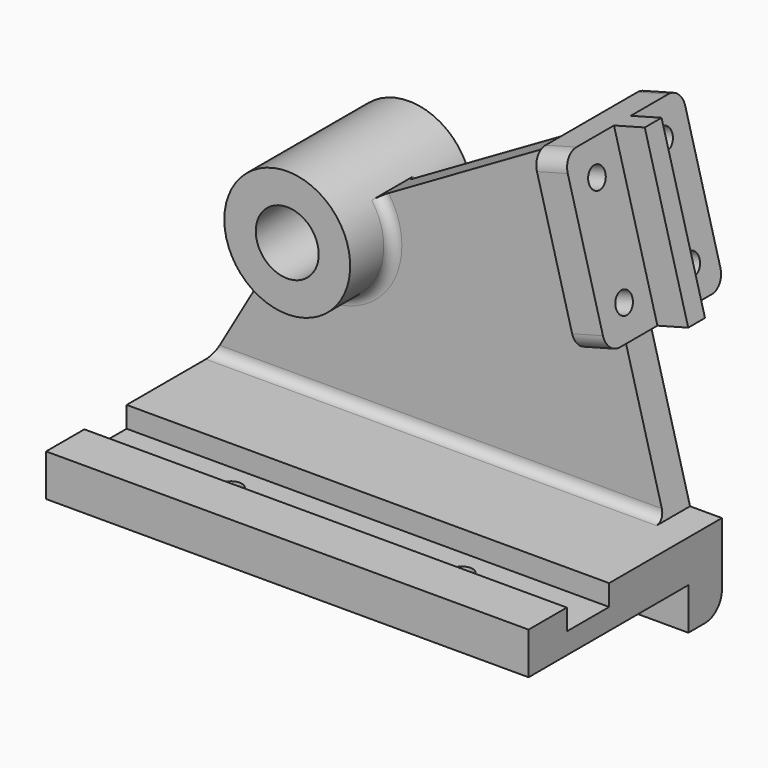
from build123d import *

# Parameters (mm, degrees)
F1_DEPTH      = 146.05
F2_R          = 3.175
F3_DEPTH      = 19.051
F4_R          = 6.35
F6_DEPTH      = 9.652
F7_R          = 19.05
F8_DEPTH      = 25.4
F8_DEPTH_BACK = 20.6375
F9_R          = 9.525
F10_DEPTH     = 46.0385
F11_W         = 44.45
F11_H         = 50.8
F12_DEPTH     = 9.652
F13_R         = 3.175
F14_DEPTH     = 9.652
F15_W         = 9.652
F15_H         = 6.35
F16_DEPTH     = 50.8
F17_R         = 4.826
F18_R         = 3.048


with BuildPart() as f1:
    # F0 (on Right) → F1 (new body)
    with BuildSketch(Plane.YZ):
        Polygon((0, -25.4), (0, 0), (-42.672, 0), (-42.672, -6.35), (-58.674, -6.35), (-58.674, 0), (-73.152, 0), (-73.152, -12.7), (-12.7, -12.7), (-12.7, -25.4), align=None)
    extrude(amount=F1_DEPTH)

    # F2 (on face) → F3 (cut, through all)
    with BuildSketch(Plane.XY.offset(-6.35)):
        with Locations((107.95, -50.673)):
            Circle(F2_R)
        with Locations((38.1, -50.673)):
            Circle(F2_R)
    extrude(amount=-F3_DEPTH, mode=Mode.SUBTRACT)

    # F4
    f4_edges = [f1.edges().sort_by_distance(p)[0] for p in [
        (73.025, 0, -25.4),
    ]]
    fillet(f4_edges, radius=F4_R)

    # F5 (on face) → F6 (join)
    with BuildSketch(Plane(origin=(0, 0, 0), x_dir=(-1, 0, 0), z_dir=(0, 1, 0))):
        Polygon((-20.2930348437, 35.148567389), (-34.798, 47.498), (-50.2252331933, 58.674), (-111.237689279, 93.899557945), (-136.398, 0), (0, 0), align=None)
    extrude(amount=-F6_DEPTH)

    # F7 (on face) → F8 (join, two sides)
    with BuildSketch(Plane(origin=(0, 0, 0), x_dir=(-1, 0, 0), z_dir=(0, 1, 0))) as f8_sk:
        with Locations((-34.798, 47.498)):
            Circle(F7_R)
    extrude(amount=-F8_DEPTH)
    extrude(f8_sk.sketch, amount=F8_DEPTH_BACK)

    # F9 (on face) → F10 (cut, through all)
    with BuildSketch(Plane.XZ.offset(25.4)):
        with Locations((34.798, 47.498)):
            Circle(F9_R)
    extrude(amount=-F10_DEPTH, mode=Mode.SUBTRACT)

    # F11 (on face) → F12 (join)
    with BuildSketch(Plane(origin=(127.2610665127, 0, 34.0995), x_dir=(0, 1, 0), z_dir=(0.9659258263, 0, 0.2588190451))):
        with Locations((-4.826, 39.534108053)):
            Rectangle(F11_W, F11_H)
    extrude(amount=F12_DEPTH)

    # F13 (on face) → F14 (cut)
    with BuildSketch(Plane(origin=(136.584182588, 0, 36.5976214233), x_dir=(0, 1, 0), z_dir=(0.9659258263, 0, 0.2588190451))):
        with Locations((-17.526, 55.409108053)):
            Circle(F13_R)
        with Locations((7.874, 55.409108053)):
            Circle(F13_R)
        with Locations((7.874, 23.659108053)):
            Circle(F13_R)
        with Locations((-17.526, 23.659108053)):
            Circle(F13_R)
    extrude(amount=-F14_DEPTH, mode=Mode.SUBTRACT)

    # F15 (on face) → F16 (join)
    with BuildSketch(Plane(origin=(-16.8061838409, 0, 62.7215319755), x_dir=(0.9659258263, 0, 0.2588190451), z_dir=(-0.2588190451, 0, 0.9659258263))):
        with Locations((146.2283508542, -4.826)):
            Rectangle(F15_W, F15_H)
    extrude(amount=-F16_DEPTH)

    # F17
    f17_edges = [f1.edges().sort_by_distance(p)[0] for p in [
        (115.116441, -27.051, 98.070093),
        (115.116441, 17.399, 98.070093),
        (128.264448, -27.051, 49.001061),
        (128.264448, 17.399, 49.001061),
    ]]
    fillet(f17_edges, radius=F17_R)

    # F18
    f18_edges = [f1.edges().sort_by_distance(p)[0] for p in [
        (46.569752, 0, 32.520405),
        (46.569752, -9.652, 32.520405),
        (68.199, -9.652, 0),
    ]]
    fillet(f18_edges, radius=F18_R)


solid = f1.part
